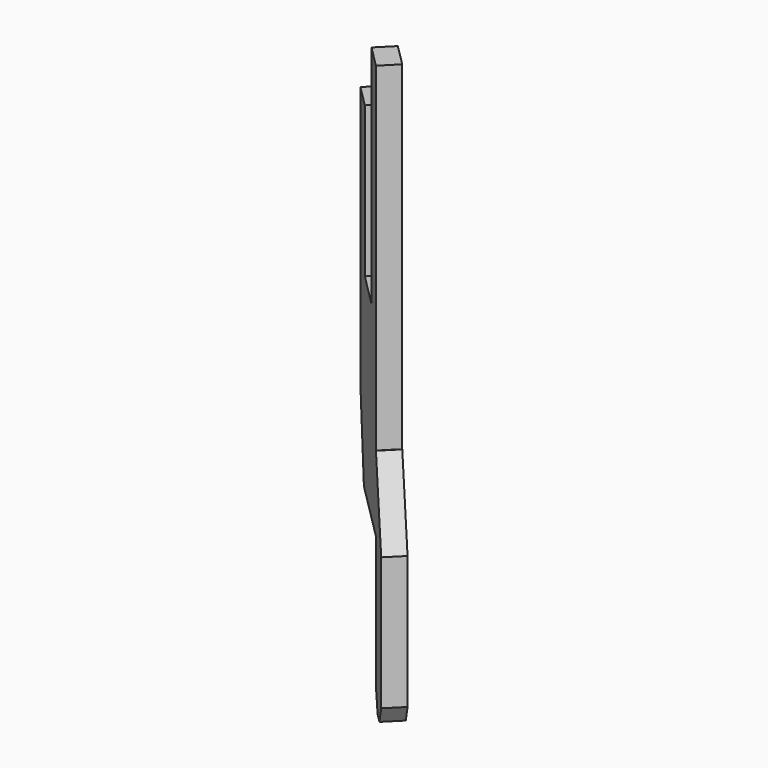
from build123d import *

# Parameters (mm, degrees)
BOX039_W                = 2.9
BOX039_H                = 0.55
BOX039_DEPTH            = 15
BOX040_W                = 1.25
BOX040_H                = 0.55
BOX040_DEPTH            = 6
BOX041_W                = 1.1
BOX041_H                = 0.6
BOX041_DEPTH            = 2
BOX043_W                = 1
BOX043_H                = 0.55
BOX043_DEPTH            = 6
BOX042_W                = 3
BOX042_H                = 0.55
BOX042_DEPTH            = 4
CHAMFER018_SIZE2        = 0.65
CHAMFER018_SIZE         = 2
CHAMFER019_ANGLE        = 33
CHAMFER019_SIZE         = 0.5
CHAMFER021_ANGLE        = 56
CHAMFER021_SIZE         = 0.33
CHAMFER020_ANGLE        = 26.565
CHAMFER020_SIZE         = 1.98
BODY023_PLACEMENT_ANGLE = 135


with BuildPart() as part:
    # Box039 → Box039 (join)
    with BuildSketch(Plane(origin=(-4.95, -0.275, 0), x_dir=(1, 0, 0), z_dir=(0, 0, 1))):
        with Locations((1.45, 0.275)):
            Rectangle(BOX039_W, BOX039_H)
    extrude(amount=BOX039_DEPTH)

    # Box040 → Box040 (cut)
    with BuildSketch(Plane(origin=(-4.125, -0.275, 9), x_dir=(1, 0, 0), z_dir=(0, 0, 1))):
        with Locations((0.625, 0.275)):
            Rectangle(BOX040_W, BOX040_H)
    extrude(amount=BOX040_DEPTH, mode=Mode.SUBTRACT)

    # Box041 → Box041 (cut)
    with BuildSketch(Plane(origin=(-3, -0.3, 13), x_dir=(1, 0, 0), z_dir=(0, 0, 1))):
        with Locations((0.55, 0.3)):
            Rectangle(BOX041_W, BOX041_H)
    extrude(amount=BOX041_DEPTH, mode=Mode.SUBTRACT)

    # Box043 → Box043 (join)
    with BuildSketch(Plane(origin=(-5.95, -0.275, 0), x_dir=(1, 0, 0), z_dir=(0, 0, 1))):
        with Locations((0.5, 0.275)):
            Rectangle(BOX043_W, BOX043_H)
    extrude(amount=BOX043_DEPTH)

    # Box042 → Box042 (cut)
    with BuildSketch(Plane(origin=(-4.95, 0.275, 4), x_dir=(1, 0, 0), z_dir=(0, 0, -1))):
        with Locations((1.5, 0.275)):
            Rectangle(BOX042_W, BOX042_H)
    extrude(amount=BOX042_DEPTH, mode=Mode.SUBTRACT)

    # Chamfer018
    chamfer018_edges = [part.edges().sort_by_distance(p)[0] for p in [
        (-2.05, 0, 4),
    ]]
    chamfer018_side = part.faces().sort_by_distance((-2.05, 0, 8.5))[0]
    chamfer(chamfer018_edges, length=CHAMFER018_SIZE, length2=CHAMFER018_SIZE2, reference=chamfer018_side)

    # Chamfer019
    chamfer019_edges = [part.edges().sort_by_distance(p)[0] for p in [
        (-4.95, 0, 0),
    ]]
    chamfer019_side = part.faces().sort_by_distance((-4.95, 0, 2))[0]
    chamfer(chamfer019_edges, length=CHAMFER019_SIZE, angle=CHAMFER019_ANGLE, reference=chamfer019_side)

    # Chamfer021
    chamfer021_edges = [part.edges().sort_by_distance(p)[0] for p in [
        (-5.95, 0, 0),
    ]]
    chamfer021_side = part.faces().sort_by_distance((-5.612352, 0, 0))[0]
    chamfer(chamfer021_edges, length=CHAMFER021_SIZE, angle=CHAMFER021_ANGLE, reference=chamfer021_side)

    # Chamfer020
    chamfer020_edges = [part.edges().sort_by_distance(p)[0] for p in [
        (-5.95, 0, 6),
    ]]
    chamfer020_side = part.faces().sort_by_distance((-5.95, 0, 3.244623))[0]
    chamfer(chamfer020_edges, length=CHAMFER020_SIZE, angle=CHAMFER020_ANGLE, reference=chamfer020_side)


with BuildPart() as part_1:
    # Body023 placement: moved
    add(part.part.moved(Location((0, 0, -4))).rotate(Axis((0, 0, -4), (0, 0, 1)), BODY023_PLACEMENT_ANGLE))


solid = part_1.part
